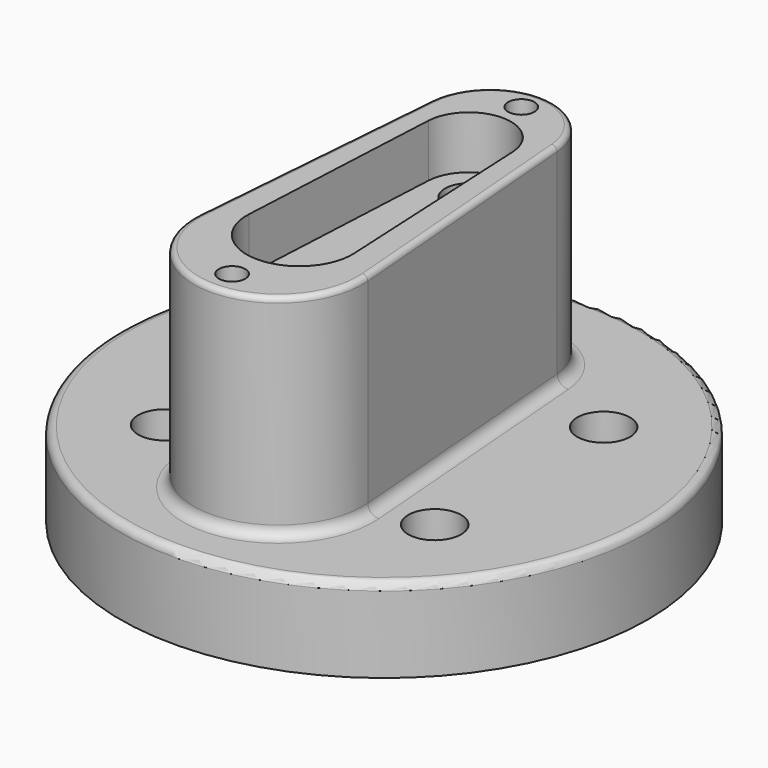
from build123d import *

# Parameters (mm, degrees)
SKETCH_R        = 25
PAD_DEPTH       = 8
PAD001_DEPTH    = 20
SKETCH002_R     = 2.5
POCKET_DEPTH    = 3
POCKET001_DEPTH = 5
SKETCH004_R     = 2.25
POCKET002_DEPTH = 5
SKETCH005_R     = 1.25
POCKET003_DEPTH = 5
FILLET_R        = 0.75
FILLET001_R     = 1
FILLET002_R     = 0.5


with BuildPart() as part:
    # Sketch → Pad (new body)
    with BuildSketch(Plane.XY):
        Circle(SKETCH_R)
    extrude(amount=PAD_DEPTH)

    # Sketch001 (on Face3 of Pad) → Pad001 (join)
    with BuildSketch(Plane.XY.offset(8)):
        with BuildLine():
            ThreePointArc((5.980892, 13.018408), (0, 18.539936), (-5.980892, 13.018408))
            Line((-5.980892, 13.018408), (-7.974522, -11.901974))
            ThreePointArc((-7.974522, -11.901974), (0, -20.539936), (7.974522, -11.901974))
            Line((7.974522, -11.901974), (5.980892, 13.018408))
        make_face()
    extrude(amount=PAD001_DEPTH)

    # Sketch002 (on Face3 of Pad001) → Pocket (cut)
    with BuildSketch(Plane.XY.offset(8)):
        with Locations((12.79, 10)):
            Circle(SKETCH002_R)
        with Locations((12.79, -10)):
            Circle(SKETCH002_R)
        with Locations((-12.79, -10)):
            Circle(SKETCH002_R)
        with Locations((-12.79, 10)):
            Circle(SKETCH002_R)
    extrude(amount=-POCKET_DEPTH, mode=Mode.SUBTRACT)

    # Sketch003 (on Face14 of Pocket) → Pocket001 (cut)
    with BuildSketch(Plane.XY.offset(28)):
        with BuildLine():
            ThreePointArc((3.995019, 10.222031), (0, 14.02248), (-3.995019, 10.222031))
            Line((-3.995019, 10.222031), (-4.993774, -9.77304))
            ThreePointArc((-4.993774, -9.77304), (0, -15.02248), (4.993774, -9.77304))
            Line((4.993774, -9.77304), (3.995019, 10.222031))
        make_face()
    extrude(amount=-POCKET001_DEPTH, mode=Mode.SUBTRACT)

    # Sketch004 (on Face21 of Pocket001) → Pocket002 (cut)
    with BuildSketch(Plane.XY.offset(23)):
        with Locations((0, 10.025)):
            Circle(SKETCH004_R)
        with Locations((0, -10.025)):
            Circle(SKETCH004_R)
    extrude(amount=-POCKET002_DEPTH, mode=Mode.SUBTRACT)

    # Sketch005 (on Face14 of Pocket002) → Pocket003 (cut)
    with BuildSketch(Plane.XY.offset(28)):
        with Locations((0, 16.24)):
            Circle(SKETCH005_R)
        with Locations((0, -18)):
            Circle(SKETCH005_R)
    extrude(amount=-POCKET003_DEPTH, mode=Mode.SUBTRACT)

    # Fillet
    fillet_edges = [part.edges().sort_by_distance(p)[0] for p in [
        (-25, 0, 8),
    ]]
    fillet(fillet_edges, radius=FILLET_R)

    # Fillet001
    fillet001_edges = [part.edges().sort_by_distance(p)[0] for p in [
        (0, -20.539936, 8),
    ]]
    fillet(fillet001_edges, radius=FILLET001_R)

    # Fillet002
    fillet002_edges = [part.edges().sort_by_distance(p)[0] for p in [
        (6.977707, 0.558217, 28),
    ]]
    fillet(fillet002_edges, radius=FILLET002_R)


solid = part.part
